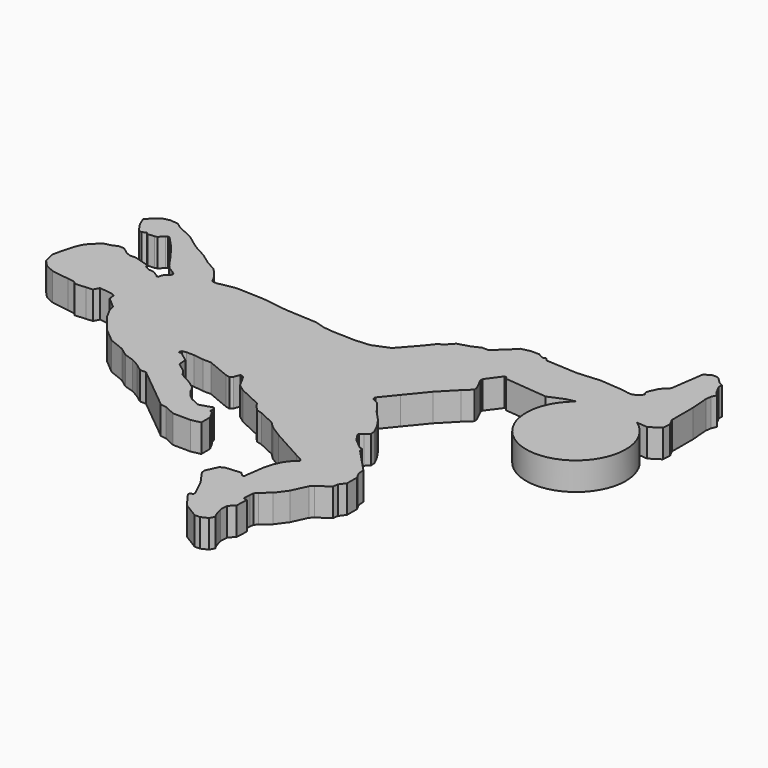
from build123d import *

# Parameters (mm, degrees)
F1_DEPTH = 2


with BuildPart() as f1:
    # F0 (on Top) → F1 (new body)
    with BuildSketch(Plane.XY):
        with BuildLine():
            Line((2.949987, 5.387723), (1.779906, 4.908841))
            Line((1.779906, 4.908841), (0.71037, 4.828761))
            Line((0.71037, 4.828761), (-0.942954, 4.880799))
            Line((-0.942954, 4.880799), (-1.6071, 4.958515))
            Line((-1.6071, 4.958515), (-2.285198, 5.169226))
            Line((-2.285198, 5.169226), (-4.593754, 5.295123))
            Line((-4.593754, 5.295123), (-6.246974, 5.531535))
            Line((-6.246974, 5.531535), (-7.102599, 5.578196))
            Line((-7.102599, 5.578196), (-8.380122, 5.618406))
            Line((-8.380122, 5.618406), (-8.938042, 5.530327))
            Line((-8.938042, 5.530327), (-9.645965, 5.387723))
            Line((-9.645965, 5.387723), (-9.981835, 5.406039))
            Line((-9.981835, 5.406039), (-10.238494, 5.884516))
            Line((-10.238494, 5.884516), (-10.554573, 6.283016))
            Line((-10.554573, 6.283016), (-10.8818, 6.645681))
            Line((-10.8818, 6.645681), (-11.641354, 7.065194))
            Line((-11.641354, 7.065194), (-12.32311, 7.567728))
            Line((-12.32311, 7.567728), (-13.351681, 8.135823))
            Line((-13.351681, 8.135823), (-14.393277, 8.9036))
            Line((-14.393277, 8.9036), (-14.8259, 9.095818))
            Line((-14.8259, 9.095818), (-15.527994, 9.430865))
            Line((-15.527994, 9.430865), (-15.870701, 9.68348))
            Line((-15.870701, 9.68348), (-16.449906, 9.751256))
            Line((-16.449906, 9.751256), (-16.970903, 9.627391))
            Line((-16.970903, 9.627391), (-17.278008, 9.383805))
            Line((-17.278008, 9.383805), (-17.75629, 8.9036))
            Line((-17.75629, 8.9036), (-17.499109, 8.299455))
            Line((-17.499109, 8.299455), (-17.043121, 7.63492))
            Line((-17.043121, 7.63492), (-16.843316, 7.619175))
            Line((-16.843316, 7.619175), (-16.554692, 7.742041))
            Line((-16.554692, 7.742041), (-16.410537, 7.635782))
            Line((-16.410537, 7.635782), (-15.943914, 7.671768))
            Line((-15.943914, 7.671768), (-15.773365, 7.710378))
            Line((-15.773365, 7.710378), (-15.450021, 8.042734))
            Line((-15.450021, 8.042734), (-15.333135, 8.107639))
            Line((-15.333135, 8.107639), (-15.214568, 8.107639))
            Line((-15.214568, 8.107639), (-14.393277, 7.232781))
            Line((-14.393277, 7.232781), (-13.610345, 6.176244))
            Line((-13.610345, 6.176244), (-13.102512, 5.436152))
            Line((-13.102512, 5.436152), (-12.838271, 5.154676))
            Line((-12.838271, 5.154676), (-12.475535, 4.934177))
            Line((-12.475535, 4.934177), (-12.254528, 4.771269))
            Line((-12.254528, 4.771269), (-12.240799, 4.68994))
            Line((-12.240799, 4.68994), (-12.271181, 4.62607))
            Line((-12.271181, 4.62607), (-12.375612, 4.484395))
            Line((-12.375612, 4.484395), (-12.563349, 4.357618))
            Line((-12.563349, 4.357618), (-12.640645, 4.191271))
            Line((-12.640645, 4.191271), (-12.697232, 4.009166))
            Line((-12.697232, 4.009166), (-12.706744, 3.942647))
            Line((-12.706744, 3.942647), (-12.803732, 3.934926))
            Line((-12.803732, 3.934926), (-12.867275, 4.027531))
            Line((-12.867275, 4.027531), (-13.30077, 4.266956))
            Line((-13.30077, 4.266956), (-13.654711, 4.308373))
            Line((-13.654711, 4.308373), (-13.863302, 4.405298))
            Line((-13.863302, 4.405298), (-13.9856, 4.472845))
            Line((-13.9856, 4.472845), (-14.04111, 4.603245))
            Line((-14.04111, 4.603245), (-14.166734, 4.695844))
            Line((-14.166734, 4.695844), (-15.104358, 4.9872))
            Line((-15.104358, 4.9872), (-15.610208, 4.9872))
            Line((-15.610208, 4.9872), (-15.896713, 5.120329))
            Line((-15.896713, 5.120329), (-16.376443, 5.473945))
            Line((-16.376443, 5.473945), (-16.796182, 5.473945))
            Line((-16.796182, 5.473945), (-17.076796, 5.323422))
            Line((-17.076796, 5.323422), (-17.634384, 5.197192))
            Line((-17.634384, 5.197192), (-17.980396, 4.872366))
            Line((-17.980396, 4.872366), (-18.400463, 4.440591))
            Line((-18.400463, 4.440591), (-18.637095, 3.931338))
            Line((-18.637095, 3.931338), (-18.882691, 3.055386))
            Line((-18.882691, 3.055386), (-19.037417, 2.381732))
            Line((-19.037417, 2.381732), (-18.851247, 1.559371))
            Line((-18.851247, 1.559371), (-18.420756, 1.100802))
            Line((-18.420756, 1.100802), (-17.762491, 0.794929))
            Line((-17.762491, 0.794929), (-16.509561, 0.615759))
            Line((-16.509561, 0.615759), (-16.0953, 0.55652))
            Line((-16.0953, 0.55652), (-15.940463, 0.484572))
            Line((-15.940463, 0.484572), (-15.856687, 0.362481))
            Line((-15.856687, 0.362481), (-15.065596, 0.42349))
            Line((-15.065596, 0.42349), (-14.605965, 0.458937))
            Line((-14.605965, 0.458937), (-14.393277, 0.844021))
            Line((-14.393277, 0.844021), (-13.445695, 0.733139))
            Line((-13.445695, 0.733139), (-13.227251, 0.612489))
            Line((-13.227251, 0.612489), (-13.195666, 0.202931))
            Line((-13.195666, 0.202931), (-12.4187, -0.473888))
            Line((-12.4187, -0.473888), (-12.274428, -0.969184))
            Line((-12.274428, -0.969184), (-11.954367, -1.565856))
            Line((-11.954367, -1.565856), (-10.978733, -2.828712))
            Line((-10.978733, -2.828712), (-9.909553, -3.722542))
            Line((-9.909553, -3.722542), (-8.842701, -4.143024))
            Line((-8.842701, -4.143024), (-8.221473, -4.600942))
            Line((-8.221473, -4.600942), (-7.525814, -4.819025))
            Line((-7.525814, -4.819025), (-6.992388, -5.113645))
            Line((-6.992388, -5.113645), (-6.427314, -5.53017))
            Line((-6.427314, -5.53017), (-5.99605, -5.53017))
            Line((-5.99605, -5.53017), (-2.916801, -8.047772))
            Line((-2.916801, -8.047772), (-2.915282, -8.067466))
            Line((-2.915282, -8.067466), (-2.463577, -8.13206))
            Line((-2.463577, -8.13206), (-1.684223, -8.494199))
            Line((-1.684223, -8.494199), (-0.41177, -8.504815))
            Line((-0.41177, -8.504815), (0.244793, -8.36159))
            Line((0.244793, -8.36159), (0.244793, -7.575807))
            Line((0.244793, -7.575807), (-0.047733, -7.027646))
            Line((-0.047733, -7.027646), (-0.232467, -6.981167))
            Line((-0.232467, -6.981167), (-0.22038, -6.704127))
            Line((-0.22038, -6.704127), (-0.332623, -6.493797))
            Line((-0.332623, -6.493797), (-1.253962, -6.788134))
            Line((-1.253962, -6.788134), (-1.90879, -6.483858))
            Line((-1.90879, -6.483858), (-2.252456, -6.221555))
            Line((-2.252456, -6.221555), (-2.603662, -5.774752))
            Line((-2.603662, -5.774752), (-2.664641, -5.631506))
            Line((-2.664641, -5.631506), (-2.810214, -5.360122))
            Line((-2.810214, -5.360122), (-3.318085, -4.985762))
            Line((-3.318085, -4.985762), (-4.18803, -4.505278))
            Line((-4.18803, -4.505278), (-4.478577, -4.081848))
            Line((-4.478577, -4.081848), (-5.142991, -3.592098))
            Line((-5.142991, -3.592098), (-5.188901, -2.996794))
            Line((-5.188901, -2.996794), (-5.886817, -2.482349))
            Line((-5.886817, -2.482349), (-6.058083, -2.473009))
            Line((-6.058083, -2.473009), (-6.090123, -2.441839))
            Line((-6.090123, -2.441839), (-6.012095, -2.273916))
            Line((-6.012095, -2.273916), (-5.740742, -2.220356))
            Line((-5.740742, -2.220356), (-5.203689, -2.220356))
            Line((-5.203689, -2.220356), (-4.476313, -2.324371))
            Line((-4.476313, -2.324371), (-3.897418, -2.324371))
            Line((-3.897418, -2.324371), (-2.29136, -2.992856))
            Line((-2.29136, -2.992856), (-1.965383, -3.076291))
            Line((-1.965383, -3.076291), (-1.804881, -2.911316))
            Line((-1.804881, -2.911316), (-1.64539, -2.491504))
            Line((-1.64539, -2.491504), (-1.511145, -2.491504))
            Line((-1.511145, -2.491504), (-1.347205, -2.612347))
            Line((-1.347205, -2.612347), (-0.891541, -3.461818))
            Line((-0.891541, -3.461818), (-0.379303, -3.839396))
            Line((-0.379303, -3.839396), (1.253525, -4.598114))
            Line((1.253525, -4.598114), (1.383357, -4.840153))
            Line((1.383357, -4.840153), (1.753435, -5.234368))
            Line((1.753435, -5.234368), (2.167638, -5.352932))
            Line((2.167638, -5.352932), (3.314931, -5.886039))
            Line((3.314931, -5.886039), (3.745734, -6.30516))
            Line((3.745734, -6.30516), (4.61167, -6.86152))
            Line((4.61167, -6.86152), (6.881852, -8.115376))
            Line((6.881852, -8.115376), (7.465041, -8.43748))
            Line((7.465041, -8.43748), (7.490223, -8.548715))
            Line((7.490223, -8.548715), (7.392726, -8.648931))
            Line((7.392726, -8.648931), (7.086661, -8.936255))
            Line((7.086661, -8.936255), (6.834323, -9.278586))
            Line((6.834323, -9.278586), (6.583669, -9.818016))
            Line((6.583669, -9.818016), (6.411858, -10.421341))
            Line((6.411858, -10.421341), (6.30405, -11.175238))
            Line((6.30405, -11.175238), (6.210369, -11.830344))
            Line((6.210369, -11.830344), (6.203142, -11.962866))
            Line((6.203142, -11.962866), (6.066125, -11.962866))
            Line((6.066125, -11.962866), (5.825586, -11.72885))
            Line((5.825586, -11.72885), (4.725056, -11.813723))
            Line((4.725056, -11.813723), (4.425815, -11.974239))
            Line((4.425815, -11.974239), (4.272382, -12.304439))
            Line((4.272382, -12.304439), (4.135051, -12.599988))
            Line((4.135051, -12.599988), (4.02221, -12.842831))
            Line((4.02221, -12.842831), (4.082953, -13.111147))
            Line((4.082953, -13.111147), (4.757531, -14.064386))
            Line((4.757531, -14.064386), (5.326946, -15.238196))
            Line((5.326946, -15.238196), (5.340623, -15.415545))
            Line((5.340623, -15.415545), (5.116556, -15.535737))
            Line((5.116556, -15.535737), (5.110408, -15.648468))
            Line((5.110408, -15.648468), (5.895688, -16.720153))
            Line((5.895688, -16.720153), (6.984613, -17.393726))
            Line((6.984613, -17.393726), (7.37119, -17.393726))
            Line((7.37119, -17.393726), (7.841709, -17.165478))
            Line((7.841709, -17.165478), (8.025623, -16.83249))
            Line((8.025623, -16.83249), (7.883322, -16.567206))
            Line((7.883322, -16.567206), (7.693829, -15.93207))
            Line((7.693829, -15.93207), (7.723971, -15.379374))
            Line((7.723971, -15.379374), (8.092328, -15.00075))
            Line((8.092328, -15.00075), (8.139928, -14.127924))
            Line((8.139928, -14.127924), (8.002003, -14.127924))
            Line((8.002003, -14.127924), (7.850611, -14.057577))
            Line((7.850611, -14.057577), (7.883322, -13.828831))
            Line((7.883322, -13.828831), (7.883322, -13.536568))
            Line((7.883322, -13.536568), (7.920558, -13.276177))
            Line((7.920558, -13.276177), (8.0939, -13.041015))
            Line((8.0939, -13.041015), (8.733818, -12.514198))
            Line((8.733818, -12.514198), (9.305938, -11.738038))
            Line((9.305938, -11.738038), (9.819634, -10.632518))
            Line((9.819634, -10.632518), (10.044585, -10.421341))
            Line((10.044585, -10.421341), (10.886636, -9.820481))
            Line((10.886636, -9.820481), (10.93807, -9.460803))
            Line((10.93807, -9.460803), (11.259454, -9.024802))
            Line((11.259454, -9.024802), (11.259454, -8.138183))
            Line((11.259454, -8.138183), (11.021529, -7.694631))
            Line((11.021529, -7.694631), (10.984935, -7.220136))
            Line((10.984935, -7.220136), (9.34031, -5.468244))
            Line((9.34031, -5.468244), (9.287364, -5.234368))
            Line((9.287364, -5.234368), (9.120063, -5.210444))
            Line((9.120063, -5.210444), (8.398471, -4.614321))
            Line((8.398471, -4.614321), (8.019972, -4.054478))
            Line((8.019972, -4.054478), (8.019972, -3.912727))
            Line((8.019972, -3.912727), (8.264993, -3.781296))
            Line((8.264993, -3.781296), (8.556694, -3.481464))
            Line((8.556694, -3.481464), (8.533078, -3.175237))
            Line((8.533078, -3.175237), (8.321233, -2.738532))
            Line((8.321233, -2.738532), (8.190543, -2.494895))
            Line((8.190543, -2.494895), (7.792247, -1.917198))
            Line((7.792247, -1.917198), (7.073023, -1.151065))
            Line((7.073023, -1.151065), (6.997009, -0.994367))
            Line((6.997009, -0.994367), (6.46591, -0.327743))
            Line((6.46591, -0.327743), (6.097979, -0.156779))
            Line((6.097979, -0.156779), (5.972016, -0.063929))
            Line((5.972016, -0.063929), (5.972016, 0.115021))
            Line((5.972016, 0.115021), (6.888947, 1.237241))
            Line((6.888947, 1.237241), (8.07727, 2.685616))
            Line((8.07727, 2.685616), (9.165881, 3.804569))
            Line((9.165881, 3.804569), (9.726718, 4.331066))
            Line((9.726718, 4.331066), (9.709961, 4.548355))
            Line((9.709961, 4.548355), (9.277613, 5.43961))
            Line((9.277613, 5.43961), (9.287364, 5.618406))
            Line((9.287364, 5.618406), (10.044585, 6.645681))
            Line((10.044585, 6.645681), (10.177934, 6.645681))
            Line((10.177934, 6.645681), (10.268944, 6.476015))
            Line((10.268944, 6.476015), (13.377025, 6.176244))
            Line((13.377025, 6.176244), (14.452472, 6.634056))
            Line((14.452472, 6.634056), (15.12696, 6.78675))
            ThreePointArc((15.12696, 6.78675), (17.424073, 0.3837), (19.357946, 6.905657))
            Line((19.357946, 6.905657), (20.140805, 6.840434))
            Line((20.140805, 6.840434), (20.890148, 7.323457))
            Line((20.890148, 7.323457), (20.92294, 7.92475))
            Line((20.92294, 7.92475), (20.685651, 8.367116))
            Line((20.685651, 8.367116), (20.685651, 10.25463))
            Line((20.685651, 10.25463), (20.584809, 11.562224))
            Line((20.584809, 11.562224), (20.641176, 11.9564))
            Line((20.641176, 11.9564), (20.794641, 12.286669))
            Line((20.794641, 12.286669), (20.58271, 12.492853))
            Line((20.58271, 12.492853), (20.231916, 13.151155))
            Line((20.231916, 13.151155), (20.246808, 13.424232))
            Line((20.246808, 13.424232), (19.995239, 13.541127))
            Line((19.995239, 13.541127), (19.486446, 14.036123))
            Line((19.486446, 14.036123), (19.101222, 14.057132))
            Line((19.101222, 14.057132), (18.596658, 13.786478))
            Line((18.596658, 13.786478), (18.25147, 11.372594))
            Line((18.25147, 11.372594), (17.775326, 10.883178))
            Line((17.775326, 10.883178), (17.494707, 10.279262))
            Line((17.494707, 10.279262), (17.443025, 10.054199))
            Line((17.443025, 10.054199), (17.576628, 9.821302))
            Line((17.576628, 9.821302), (17.502014, 9.751256))
            Line((17.502014, 9.751256), (17.237389, 9.502833))
            Line((17.237389, 9.502833), (16.991329, 9.394062))
            Line((16.991329, 9.394062), (16.67809, 9.411145))
            Line((16.67809, 9.411145), (16.155233, 9.502833))
            Line((16.155233, 9.502833), (14.574713, 9.627391))
            Line((14.574713, 9.627391), (12.959602, 9.502833))
            Line((12.959602, 9.502833), (10.675606, 9.627391))
            Line((10.675606, 9.627391), (10.503524, 9.821302))
            Line((10.503524, 9.821302), (10.268944, 9.751256))
            Line((10.268944, 9.751256), (9.873842, 9.969477))
            Line((9.873842, 9.969477), (9.287364, 9.969477))
            Line((9.287364, 9.969477), (8.632836, 9.821302))
            Line((8.632836, 9.821302), (8.29493, 9.46589))
            Line((8.29493, 9.46589), (7.352945, 8.581582))
            Line((7.352945, 8.581582), (6.868993, 8.581582))
            Line((6.868993, 8.581582), (6.299644, 8.313589))
            Line((6.299644, 8.313589), (5.44043, 8.05998))
            Line((5.44043, 8.05998), (5.017971, 7.599542))
            Line((5.017971, 7.599542), (4.61167, 7.323457))
            Line((4.61167, 7.323457), (4.080853, 6.664721))
            Line((4.080853, 6.664721), (2.949987, 5.387723))
        make_face()
        with BuildLine():
            Line((2.949987, 5.387723), (1.779906, 4.908841))
            Line((1.779906, 4.908841), (0.71037, 4.828761))
            Line((0.71037, 4.828761), (-0.942954, 4.880799))
            Line((-0.942954, 4.880799), (-1.6071, 4.958515))
            Line((-1.6071, 4.958515), (-2.285198, 5.169226))
            Line((-2.285198, 5.169226), (-4.593754, 5.295123))
            Line((-4.593754, 5.295123), (-6.246974, 5.531535))
            Line((-6.246974, 5.531535), (-7.102599, 5.578196))
            Line((-7.102599, 5.578196), (-8.380122, 5.618406))
            Line((-8.380122, 5.618406), (-8.938042, 5.530327))
            Line((-8.938042, 5.530327), (-9.645965, 5.387723))
            Line((-9.645965, 5.387723), (-9.981835, 5.406039))
            Line((-9.981835, 5.406039), (-10.238494, 5.884516))
            Line((-10.238494, 5.884516), (-10.554573, 6.283016))
            Line((-10.554573, 6.283016), (-10.8818, 6.645681))
            Line((-10.8818, 6.645681), (-11.641354, 7.065194))
            Line((-11.641354, 7.065194), (-12.32311, 7.567728))
            Line((-12.32311, 7.567728), (-13.351681, 8.135823))
            Line((-13.351681, 8.135823), (-14.393277, 8.9036))
            Line((-14.393277, 8.9036), (-14.8259, 9.095818))
            Line((-14.8259, 9.095818), (-15.527994, 9.430865))
            Line((-15.527994, 9.430865), (-15.870701, 9.68348))
            Line((-15.870701, 9.68348), (-16.449906, 9.751256))
            Line((-16.449906, 9.751256), (-16.970903, 9.627391))
            Line((-16.970903, 9.627391), (-17.278008, 9.383805))
            Line((-17.278008, 9.383805), (-17.75629, 8.9036))
            Line((-17.75629, 8.9036), (-17.499109, 8.299455))
            Line((-17.499109, 8.299455), (-17.043121, 7.63492))
            Line((-17.043121, 7.63492), (-16.843316, 7.619175))
            Line((-16.843316, 7.619175), (-16.554692, 7.742041))
            Line((-16.554692, 7.742041), (-16.410537, 7.635782))
            Line((-16.410537, 7.635782), (-15.943914, 7.671768))
            Line((-15.943914, 7.671768), (-15.773365, 7.710378))
            Line((-15.773365, 7.710378), (-15.450021, 8.042734))
            Line((-15.450021, 8.042734), (-15.333135, 8.107639))
            Line((-15.333135, 8.107639), (-15.214568, 8.107639))
            Line((-15.214568, 8.107639), (-14.393277, 7.232781))
            Line((-14.393277, 7.232781), (-13.610345, 6.176244))
            Line((-13.610345, 6.176244), (-13.102512, 5.436152))
            Line((-13.102512, 5.436152), (-12.838271, 5.154676))
            Line((-12.838271, 5.154676), (-12.475535, 4.934177))
            Line((-12.475535, 4.934177), (-12.254528, 4.771269))
            Line((-12.254528, 4.771269), (-12.240799, 4.68994))
            Line((-12.240799, 4.68994), (-12.271181, 4.62607))
            Line((-12.271181, 4.62607), (-12.375612, 4.484395))
            Line((-12.375612, 4.484395), (-12.563349, 4.357618))
            Line((-12.563349, 4.357618), (-12.640645, 4.191271))
            Line((-12.640645, 4.191271), (-12.697232, 4.009166))
            Line((-12.697232, 4.009166), (-12.706744, 3.942647))
            Line((-12.706744, 3.942647), (-12.803732, 3.934926))
            Line((-12.803732, 3.934926), (-12.867275, 4.027531))
            Line((-12.867275, 4.027531), (-13.30077, 4.266956))
            Line((-13.30077, 4.266956), (-13.654711, 4.308373))
            Line((-13.654711, 4.308373), (-13.863302, 4.405298))
            Line((-13.863302, 4.405298), (-13.9856, 4.472845))
            Line((-13.9856, 4.472845), (-14.04111, 4.603245))
            Line((-14.04111, 4.603245), (-14.166734, 4.695844))
            Line((-14.166734, 4.695844), (-15.104358, 4.9872))
            Line((-15.104358, 4.9872), (-15.610208, 4.9872))
            Line((-15.610208, 4.9872), (-15.896713, 5.120329))
            Line((-15.896713, 5.120329), (-16.376443, 5.473945))
            Line((-16.376443, 5.473945), (-16.796182, 5.473945))
            Line((-16.796182, 5.473945), (-17.076796, 5.323422))
            Line((-17.076796, 5.323422), (-17.634384, 5.197192))
            Line((-17.634384, 5.197192), (-17.980396, 4.872366))
            Line((-17.980396, 4.872366), (-18.400463, 4.440591))
            Line((-18.400463, 4.440591), (-18.637095, 3.931338))
            Line((-18.637095, 3.931338), (-18.882691, 3.055386))
            Line((-18.882691, 3.055386), (-19.037417, 2.381732))
            Line((-19.037417, 2.381732), (-18.851247, 1.559371))
            Line((-18.851247, 1.559371), (-18.420756, 1.100802))
            Line((-18.420756, 1.100802), (-17.762491, 0.794929))
            Line((-17.762491, 0.794929), (-16.509561, 0.615759))
            Line((-16.509561, 0.615759), (-16.0953, 0.55652))
            Line((-16.0953, 0.55652), (-15.940463, 0.484572))
            Line((-15.940463, 0.484572), (-15.856687, 0.362481))
            Line((-15.856687, 0.362481), (-15.065596, 0.42349))
            Line((-15.065596, 0.42349), (-14.605965, 0.458937))
            Line((-14.605965, 0.458937), (-14.393277, 0.844021))
            Line((-14.393277, 0.844021), (-13.445695, 0.733139))
            Line((-13.445695, 0.733139), (-13.227251, 0.612489))
            Line((-13.227251, 0.612489), (-13.195666, 0.202931))
            Line((-13.195666, 0.202931), (-12.4187, -0.473888))
            Line((-12.4187, -0.473888), (-12.274428, -0.969184))
            Line((-12.274428, -0.969184), (-11.954367, -1.565856))
            Line((-11.954367, -1.565856), (-10.978733, -2.828712))
            Line((-10.978733, -2.828712), (-9.909553, -3.722542))
            Line((-9.909553, -3.722542), (-8.842701, -4.143024))
            Line((-8.842701, -4.143024), (-8.221473, -4.600942))
            Line((-8.221473, -4.600942), (-7.525814, -4.819025))
            Line((-7.525814, -4.819025), (-6.992388, -5.113645))
            Line((-6.992388, -5.113645), (-6.427314, -5.53017))
            Line((-6.427314, -5.53017), (-5.99605, -5.53017))
            Line((-5.99605, -5.53017), (-2.916801, -8.047772))
            Line((-2.916801, -8.047772), (-2.915282, -8.067466))
            Line((-2.915282, -8.067466), (-2.463577, -8.13206))
            Line((-2.463577, -8.13206), (-1.684223, -8.494199))
            Line((-1.684223, -8.494199), (-0.41177, -8.504815))
            Line((-0.41177, -8.504815), (0.244793, -8.36159))
            Line((0.244793, -8.36159), (0.244793, -7.575807))
            Line((0.244793, -7.575807), (-0.047733, -7.027646))
            Line((-0.047733, -7.027646), (-0.232467, -6.981167))
            Line((-0.232467, -6.981167), (-0.22038, -6.704127))
            Line((-0.22038, -6.704127), (-0.332623, -6.493797))
            Line((-0.332623, -6.493797), (-1.253962, -6.788134))
            Line((-1.253962, -6.788134), (-1.90879, -6.483858))
            Line((-1.90879, -6.483858), (-2.252456, -6.221555))
            Line((-2.252456, -6.221555), (-2.603662, -5.774752))
            Line((-2.603662, -5.774752), (-2.664641, -5.631506))
            Line((-2.664641, -5.631506), (-2.810214, -5.360122))
            Line((-2.810214, -5.360122), (-3.318085, -4.985762))
            Line((-3.318085, -4.985762), (-4.18803, -4.505278))
            Line((-4.18803, -4.505278), (-4.478577, -4.081848))
            Line((-4.478577, -4.081848), (-5.142991, -3.592098))
            Line((-5.142991, -3.592098), (-5.188901, -2.996794))
            Line((-5.188901, -2.996794), (-5.886817, -2.482349))
            Line((-5.886817, -2.482349), (-6.058083, -2.473009))
            Line((-6.058083, -2.473009), (-6.090123, -2.441839))
            Line((-6.090123, -2.441839), (-6.012095, -2.273916))
            Line((-6.012095, -2.273916), (-5.740742, -2.220356))
            Line((-5.740742, -2.220356), (-5.203689, -2.220356))
            Line((-5.203689, -2.220356), (-4.476313, -2.324371))
            Line((-4.476313, -2.324371), (-3.897418, -2.324371))
            Line((-3.897418, -2.324371), (-2.29136, -2.992856))
            Line((-2.29136, -2.992856), (-1.965383, -3.076291))
            Line((-1.965383, -3.076291), (-1.804881, -2.911316))
            Line((-1.804881, -2.911316), (-1.64539, -2.491504))
            Line((-1.64539, -2.491504), (-1.511145, -2.491504))
            Line((-1.511145, -2.491504), (-1.347205, -2.612347))
            Line((-1.347205, -2.612347), (-0.891541, -3.461818))
            Line((-0.891541, -3.461818), (-0.379303, -3.839396))
            Line((-0.379303, -3.839396), (1.253525, -4.598114))
            Line((1.253525, -4.598114), (1.383357, -4.840153))
            Line((1.383357, -4.840153), (1.753435, -5.234368))
            Line((1.753435, -5.234368), (2.167638, -5.352932))
            Line((2.167638, -5.352932), (3.314931, -5.886039))
            Line((3.314931, -5.886039), (3.745734, -6.30516))
            Line((3.745734, -6.30516), (4.61167, -6.86152))
            Line((4.61167, -6.86152), (6.881852, -8.115376))
            Line((6.881852, -8.115376), (7.465041, -8.43748))
            Line((7.465041, -8.43748), (7.490223, -8.548715))
            Line((7.490223, -8.548715), (7.392726, -8.648931))
            Line((7.392726, -8.648931), (7.086661, -8.936255))
            Line((7.086661, -8.936255), (6.834323, -9.278586))
            Line((6.834323, -9.278586), (6.583669, -9.818016))
            Line((6.583669, -9.818016), (6.411858, -10.421341))
            Line((6.411858, -10.421341), (6.30405, -11.175238))
            Line((6.30405, -11.175238), (6.210369, -11.830344))
            Line((6.210369, -11.830344), (6.203142, -11.962866))
            Line((6.203142, -11.962866), (6.066125, -11.962866))
            Line((6.066125, -11.962866), (5.825586, -11.72885))
            Line((5.825586, -11.72885), (4.725056, -11.813723))
            Line((4.725056, -11.813723), (4.425815, -11.974239))
            Line((4.425815, -11.974239), (4.272382, -12.304439))
            Line((4.272382, -12.304439), (4.135051, -12.599988))
            Line((4.135051, -12.599988), (4.02221, -12.842831))
            Line((4.02221, -12.842831), (4.082953, -13.111147))
            Line((4.082953, -13.111147), (4.757531, -14.064386))
            Line((4.757531, -14.064386), (5.326946, -15.238196))
            Line((5.326946, -15.238196), (5.340623, -15.415545))
            Line((5.340623, -15.415545), (5.116556, -15.535737))
            Line((5.116556, -15.535737), (5.110408, -15.648468))
            Line((5.110408, -15.648468), (5.895688, -16.720153))
            Line((5.895688, -16.720153), (6.984613, -17.393726))
            Line((6.984613, -17.393726), (7.37119, -17.393726))
            Line((7.37119, -17.393726), (7.841709, -17.165478))
            Line((7.841709, -17.165478), (8.025623, -16.83249))
            Line((8.025623, -16.83249), (7.883322, -16.567206))
            Line((7.883322, -16.567206), (7.693829, -15.93207))
            Line((7.693829, -15.93207), (7.723971, -15.379374))
            Line((7.723971, -15.379374), (8.092328, -15.00075))
            Line((8.092328, -15.00075), (8.139928, -14.127924))
            Line((8.139928, -14.127924), (8.002003, -14.127924))
            Line((8.002003, -14.127924), (7.850611, -14.057577))
            Line((7.850611, -14.057577), (7.883322, -13.828831))
            Line((7.883322, -13.828831), (7.883322, -13.536568))
            Line((7.883322, -13.536568), (7.920558, -13.276177))
            Line((7.920558, -13.276177), (8.0939, -13.041015))
            Line((8.0939, -13.041015), (8.733818, -12.514198))
            Line((8.733818, -12.514198), (9.305938, -11.738038))
            Line((9.305938, -11.738038), (9.819634, -10.632518))
            Line((9.819634, -10.632518), (10.044585, -10.421341))
            Line((10.044585, -10.421341), (10.886636, -9.820481))
            Line((10.886636, -9.820481), (10.93807, -9.460803))
            Line((10.93807, -9.460803), (11.259454, -9.024802))
            Line((11.259454, -9.024802), (11.259454, -8.138183))
            Line((11.259454, -8.138183), (11.021529, -7.694631))
            Line((11.021529, -7.694631), (10.984935, -7.220136))
            Line((10.984935, -7.220136), (9.34031, -5.468244))
            Line((9.34031, -5.468244), (9.287364, -5.234368))
            Line((9.287364, -5.234368), (9.120063, -5.210444))
            Line((9.120063, -5.210444), (8.398471, -4.614321))
            Line((8.398471, -4.614321), (8.019972, -4.054478))
            Line((8.019972, -4.054478), (8.019972, -3.912727))
            Line((8.019972, -3.912727), (8.264993, -3.781296))
            Line((8.264993, -3.781296), (8.556694, -3.481464))
            Line((8.556694, -3.481464), (8.533078, -3.175237))
            Line((8.533078, -3.175237), (8.321233, -2.738532))
            Line((8.321233, -2.738532), (8.190543, -2.494895))
            Line((8.190543, -2.494895), (7.792247, -1.917198))
            Line((7.792247, -1.917198), (7.073023, -1.151065))
            Line((7.073023, -1.151065), (6.997009, -0.994367))
            Line((6.997009, -0.994367), (6.46591, -0.327743))
            Line((6.46591, -0.327743), (6.097979, -0.156779))
            Line((6.097979, -0.156779), (5.972016, -0.063929))
            Line((5.972016, -0.063929), (5.972016, 0.115021))
            Line((5.972016, 0.115021), (6.888947, 1.237241))
            Line((6.888947, 1.237241), (8.07727, 2.685616))
            Line((8.07727, 2.685616), (9.165881, 3.804569))
            Line((9.165881, 3.804569), (9.726718, 4.331066))
            Line((9.726718, 4.331066), (9.709961, 4.548355))
            Line((9.709961, 4.548355), (9.277613, 5.43961))
            Line((9.277613, 5.43961), (9.287364, 5.618406))
            Line((9.287364, 5.618406), (10.044585, 6.645681))
            Line((10.044585, 6.645681), (10.177934, 6.645681))
            Line((10.177934, 6.645681), (10.268944, 6.476015))
            Line((10.268944, 6.476015), (13.377025, 6.176244))
            Line((13.377025, 6.176244), (14.452472, 6.634056))
            Line((14.452472, 6.634056), (15.12696, 6.78675))
            ThreePointArc((15.12696, 6.78675), (17.424073, 0.3837), (19.357946, 6.905657))
            Line((19.357946, 6.905657), (20.140805, 6.840434))
            Line((20.140805, 6.840434), (20.890148, 7.323457))
            Line((20.890148, 7.323457), (20.92294, 7.92475))
            Line((20.92294, 7.92475), (20.685651, 8.367116))
            Line((20.685651, 8.367116), (20.685651, 10.25463))
            Line((20.685651, 10.25463), (20.584809, 11.562224))
            Line((20.584809, 11.562224), (20.641176, 11.9564))
            Line((20.641176, 11.9564), (20.794641, 12.286669))
            Line((20.794641, 12.286669), (20.58271, 12.492853))
            Line((20.58271, 12.492853), (20.231916, 13.151155))
            Line((20.231916, 13.151155), (20.246808, 13.424232))
            Line((20.246808, 13.424232), (19.995239, 13.541127))
            Line((19.995239, 13.541127), (19.486446, 14.036123))
            Line((19.486446, 14.036123), (19.101222, 14.057132))
            Line((19.101222, 14.057132), (18.596658, 13.786478))
            Line((18.596658, 13.786478), (18.25147, 11.372594))
            Line((18.25147, 11.372594), (17.775326, 10.883178))
            Line((17.775326, 10.883178), (17.494707, 10.279262))
            Line((17.494707, 10.279262), (17.443025, 10.054199))
            Line((17.443025, 10.054199), (17.576628, 9.821302))
            Line((17.576628, 9.821302), (17.502014, 9.751256))
            Line((17.502014, 9.751256), (17.237389, 9.502833))
            Line((17.237389, 9.502833), (16.991329, 9.394062))
            Line((16.991329, 9.394062), (16.67809, 9.411145))
            Line((16.67809, 9.411145), (16.155233, 9.502833))
            Line((16.155233, 9.502833), (14.574713, 9.627391))
            Line((14.574713, 9.627391), (12.959602, 9.502833))
            Line((12.959602, 9.502833), (10.675606, 9.627391))
            Line((10.675606, 9.627391), (10.503524, 9.821302))
            Line((10.503524, 9.821302), (10.268944, 9.751256))
            Line((10.268944, 9.751256), (9.873842, 9.969477))
            Line((9.873842, 9.969477), (9.287364, 9.969477))
            Line((9.287364, 9.969477), (8.632836, 9.821302))
            Line((8.632836, 9.821302), (8.29493, 9.46589))
            Line((8.29493, 9.46589), (7.352945, 8.581582))
            Line((7.352945, 8.581582), (6.868993, 8.581582))
            Line((6.868993, 8.581582), (6.299644, 8.313589))
            Line((6.299644, 8.313589), (5.44043, 8.05998))
            Line((5.44043, 8.05998), (5.017971, 7.599542))
            Line((5.017971, 7.599542), (4.61167, 7.323457))
            Line((4.61167, 7.323457), (4.080853, 6.664721))
            Line((4.080853, 6.664721), (2.949987, 5.387723))
        make_face()
    extrude(amount=F1_DEPTH)


solid = f1.part
